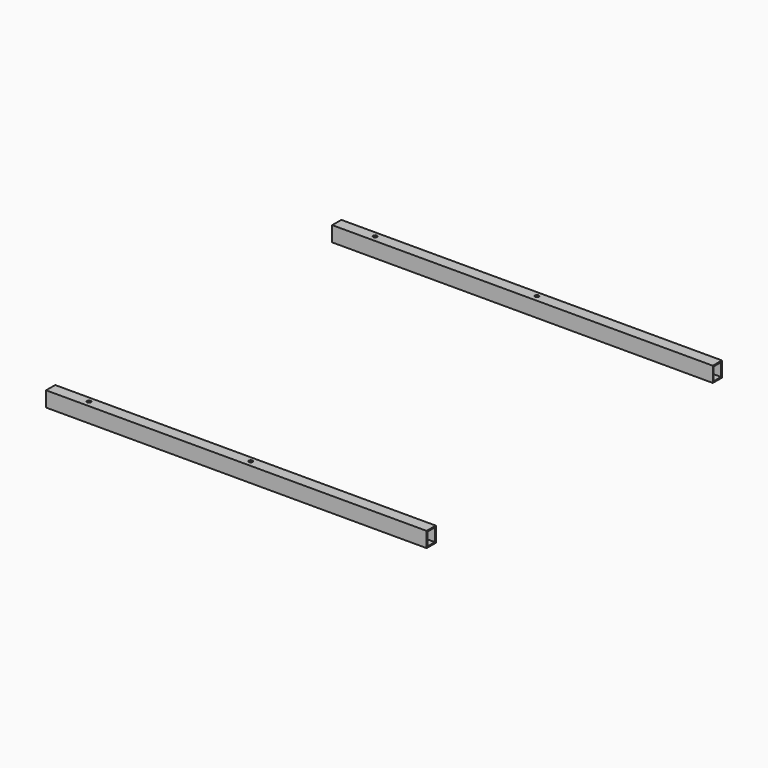
from build123d import *

# Parameters (mm, degrees)
F0_W     = 1000
F0_H     = 40
F1_DEPTH = 30
F2_T     = -3
F4_D     = 10


with BuildPart() as f1:
    # F0 (on Front) → F1 (new body)
    with BuildSketch(Plane.XZ):
        Rectangle(F0_W, F0_H)
    extrude(amount=F1_DEPTH)

    # F2
    f2_openings = [f1.faces().sort_by_distance(p)[0] for p in [
        (500, -15, 0),
    ]]
    offset(amount=F2_T, openings=f2_openings)

    # F4 (through all)
    with Locations(Plane.XY.offset(20)):
        with Locations((-400, -14.034213), (25, -14.034213)):
            Hole(F4_D / 2)


with BuildPart() as f5_1:
    # F5: copy of F1
    add(f1.part.moved(Location((0, 940, 0))))


solid = Compound([f1.part, f5_1.part])
